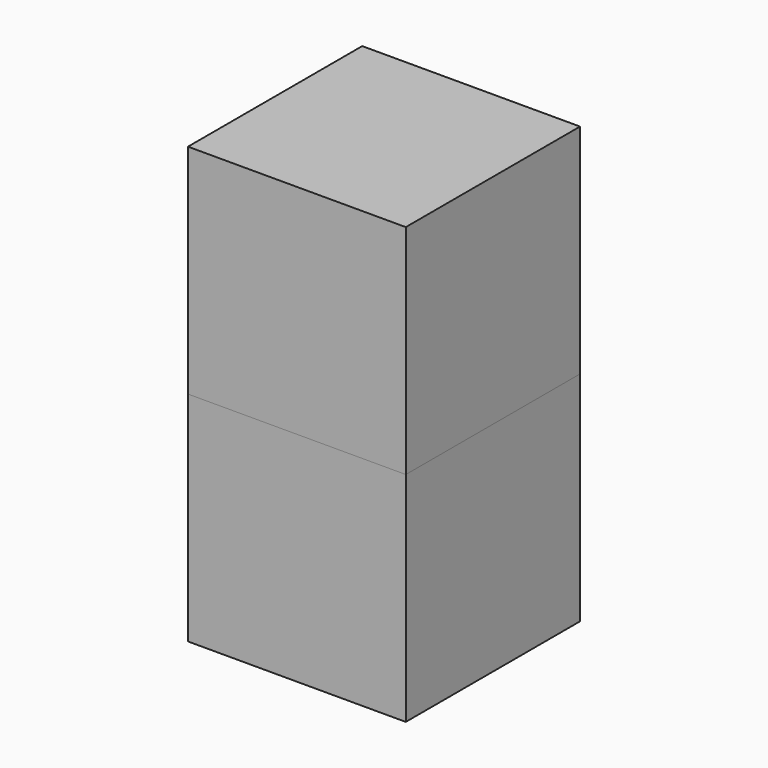
from build123d import *

# Parameters (mm, degrees)
BOX_W        = 10
BOX_H        = 10
BOX_DEPTH    = 10
BOX001_W     = 10
BOX001_H     = 10
BOX001_DEPTH = 10


with BuildPart() as box:
    # Box → Box (new body)
    with BuildSketch(Plane.XY.offset(10)):
        with Locations((5, 5)):
            Rectangle(BOX_W, BOX_H)
    extrude(amount=BOX_DEPTH)


with BuildPart() as box001:
    # Box001 → Box001 (new body)
    with BuildSketch(Plane.XY):
        with Locations((5, 5)):
            Rectangle(BOX001_W, BOX001_H)
    extrude(amount=BOX001_DEPTH)


solid = Compound([box.part, box001.part])
